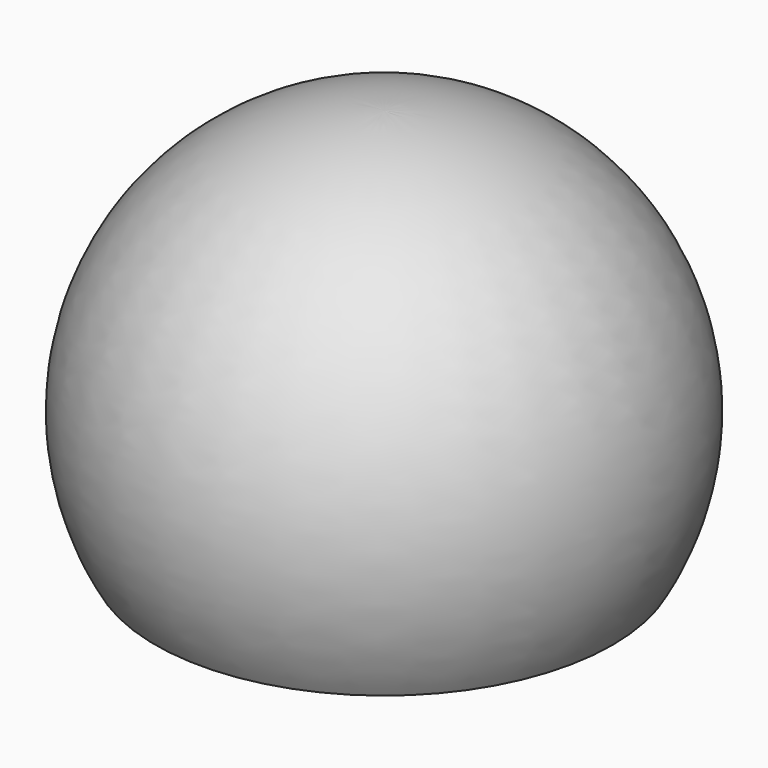
from build123d import *

# Parameters (mm, degrees)
F2_R = 1.2
F3_R = 1.5


with BuildPart() as f1:
    # F0 (on Front) → F1 (revolve)
    with BuildSketch(Plane.XZ):
        with BuildLine():
            Line((0, 22.5), (0, 24))
            ThreePointArc((0, 24), (-13.856406, 16), (-13.856406, 0))
            Line((-13.856406, 0), (-12.093387, 0))
            ThreePointArc((-12.093387, 0), (-14.016456, 11.71335), (-6.546283, 20.938168))
            ThreePointArc((-6.546283, 20.938168), (-5.612272, 21.369832), (-4.65, 21.734173))
            ThreePointArc((-4.65, 21.734173), (-3.905637, 21.964097), (-3.15, 22.15371))
            ThreePointArc((-3.15, 22.15371), (-1.584489, 22.413167), (0, 22.5))
        make_face()
        with BuildLine():
            Line((-3.15, 17.65371), (-3.15, 22.15371))
            ThreePointArc((-3.15, 22.15371), (-3.905637, 21.964097), (-4.65, 21.734173))
            Line((-4.65, 21.734173), (-4.65, 17.65371))
            Line((-4.65, 17.65371), (-3.15, 17.65371))
        make_face()
        with BuildLine():
            ThreePointArc((-4.65, 21.734173), (-5.612272, 21.369832), (-6.546283, 20.938168))
            Line((-6.546283, 20.938168), (-4.65, 17.65371))
            Line((-4.65, 17.65371), (-4.65, 21.734173))
        make_face()
    revolve(axis=Axis((0, 0, 23.25), (0, 0, 1)))

    # F2
    f2_edges = [f1.edges().sort_by_distance(p)[0] for p in [
        (3.15, 0, 17.65371),
    ]]
    fillet(f2_edges, radius=F2_R)

    # F3
    f3_edges = [f1.edges().sort_by_distance(p)[0] for p in [
        (6.546283, 0, 20.938168),
    ]]
    fillet(f3_edges, radius=F3_R)


solid = f1.part
